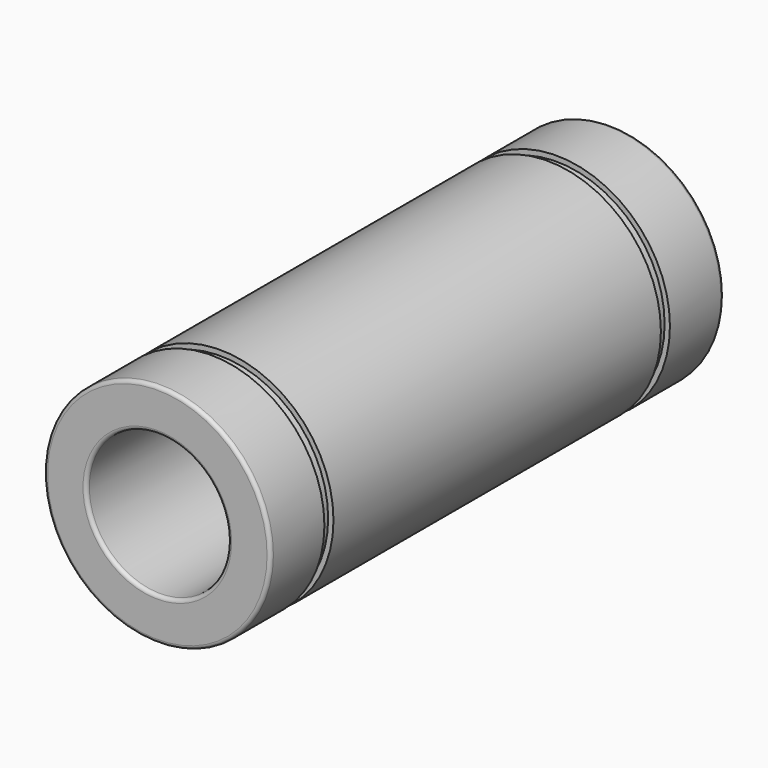
from build123d import *

# Parameters (mm, degrees)
F2_R = 0.5


with BuildPart() as f1:
    # F0 (on Top) → F1 (revolve)
    with BuildSketch(Plane.XY):
        Polygon((16, 0), (10, 0), (10, -80), (16, -80), (16, -70.5), (15.25, -70.5), (15.25, -68.9), (16, -68.9), (16, -11.1), (15.25, -11.1), (15.25, -9.5), (16, -9.5), align=None)
    revolve(axis=Axis((0, -28.76322, 0), (0, -1, 0)))

    # F2
    f2_edges = [f1.edges().sort_by_distance(p)[0] for p in [
        (-10, -80, 0),
        (-16, -80, 0),
        (-16, 0, 0),
        (-10, 0, 0),
    ]]
    fillet(f2_edges, radius=F2_R)


solid = f1.part
